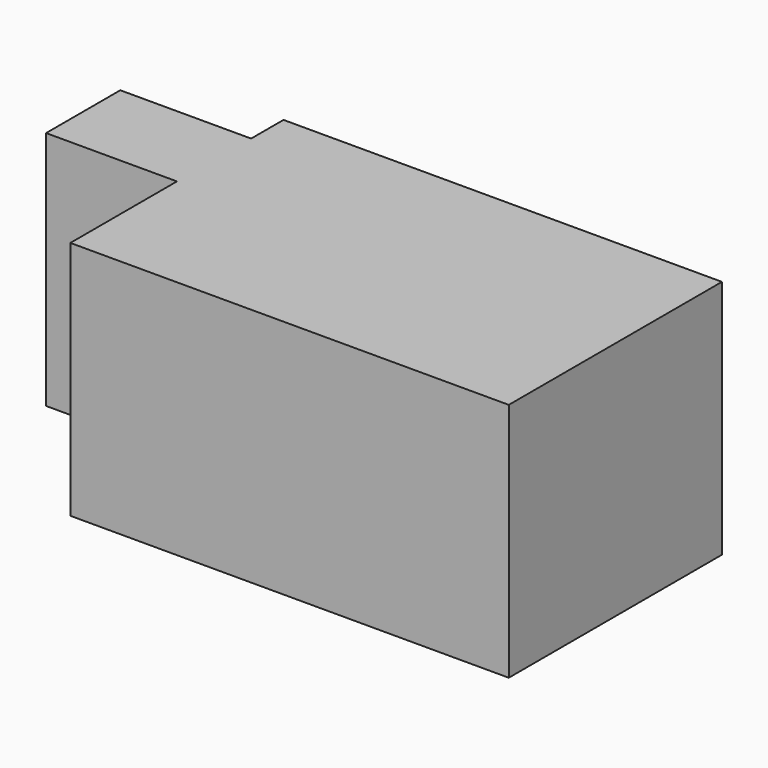
from build123d import *

# Parameters (mm, degrees)
F0_W     = 27.668342
F0_H     = 19.610295
F1_DEPTH = 50.8


with BuildPart() as f1:
    # F0 (on Top) → F1 (new body)
    with BuildSketch(Plane.XY):
        with Locations((-55.194065, 37.972662)):
            Rectangle(F0_W, F0_H)
        Polygon((-41.359894, 28.167514), (-41.359894, 0), (51.343314, 0), (51.343314, 56.335028), (-41.359894, 56.335028), (-41.359894, 47.777809), align=None)
    extrude(amount=F1_DEPTH)


solid = f1.part
